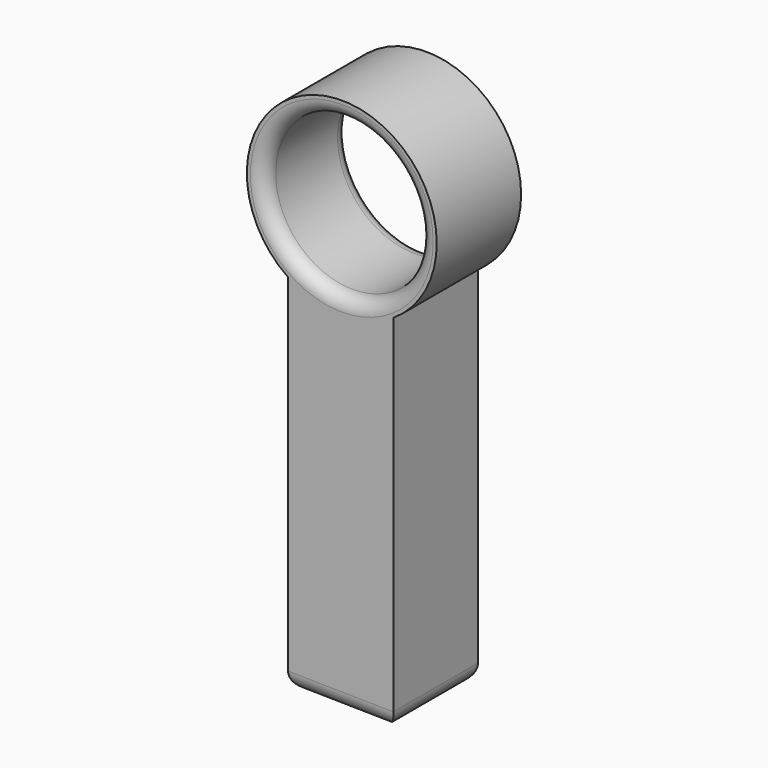
from build123d import *

# Parameters (mm, degrees)
F0_R     = 34.29
F0_R_2   = 27.94
F1_DEPTH = 38.1
F3_DEPTH = 38.1
F4_R     = 6.35
F5_R     = 5.08
F6_R     = 5.08


with BuildPart() as f1:
    # F0 (on Front) → F1 (new body)
    with BuildSketch(Plane.XZ):
        Circle(F0_R)
        Circle(F0_R_2, mode=Mode.SUBTRACT)
    extrude(amount=-F1_DEPTH)

    # F2 (on face) → F3 (join)
    with BuildSketch(Plane.XZ):
        with BuildLine():
            ThreePointArc((18.723981822, -28.7265835896), (-0.3921055503, -34.2877580667), (-19.376018178, -28.2908822691))
            Line((-19.376018178, -28.2908822691), (-19.376018178, -159.8299160348))
            Line((-19.376018178, -159.8299160348), (18.723981822, -160.462572118))
            Line((18.723981822, -160.462572118), (18.723981822, -28.7265835896))
        make_face()
    extrude(amount=-F3_DEPTH)

    # F4
    f4_edges = [f1.edges().sort_by_distance(p)[0] for p in [
        (-0.326018, 0, -160.146244),
        (-0.326018, 38.1, -160.146244),
        (18.723982, 19.05, -160.462572),
        (-19.376018, 19.05, -159.829916),
    ]]
    fillet(f4_edges, radius=F4_R)

    # F5
    f5_edges = [f1.edges().sort_by_distance(p)[0] for p in [
        (-27.94, 0, 0),
    ]]
    fillet(f5_edges, radius=F5_R)

    # F6
    f6_edges = [f1.edges().sort_by_distance(p)[0] for p in [
        (-27.94, 38.1, 0),
    ]]
    fillet(f6_edges, radius=F6_R)


solid = f1.part
